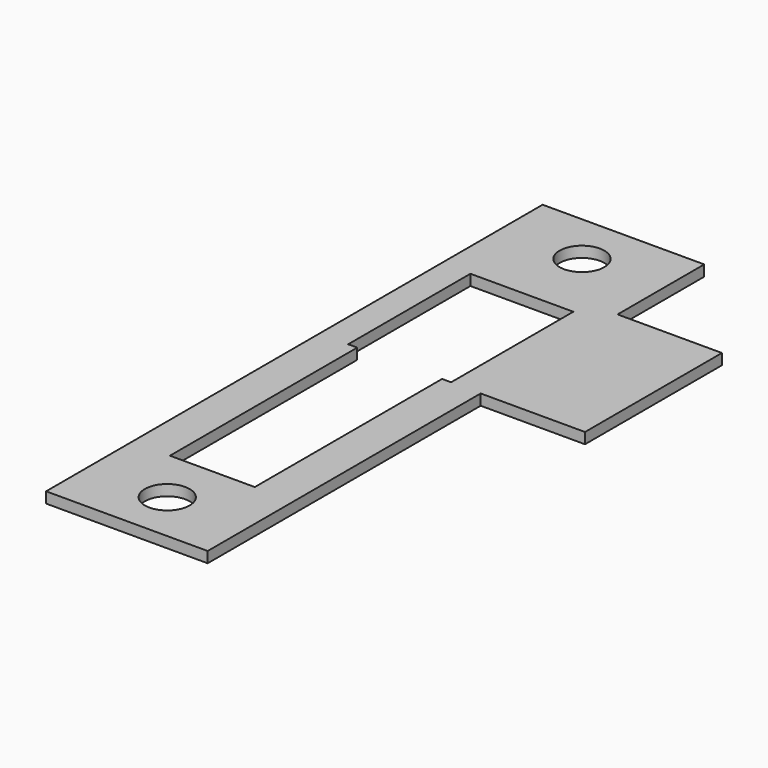
from build123d import *

# Parameters (mm, degrees)
F1_DEPTH = 1.5
F2_R     = 3.1
F3_DEPTH = 1.501


with BuildPart() as f1:
    # F0 (on Top) → F1 (new body)
    with BuildSketch(Plane.XY):
        Polygon((-11.462062, 36.813092), (-33.842062, 36.813092), (-33.842062, -49.136908), (-11.462062, -49.136908), (-11.462062, -1.886908), (2.987938, -1.886908), (2.987938, 21.813092), (-11.462062, 21.813092), align=None)
    extrude(amount=F1_DEPTH)

    # F2 (on Top) → F3 (cut, through all)
    with BuildSketch(Plane.XY):
        Polygon((-15.592062, 19.313092), (-29.842062, 19.313092), (-29.842062, -1.836908), (-28.592062, -1.836908), (-28.592062, -34.259443), (-16.842062, -34.259443), (-16.842062, -1.836908), (-15.592062, -1.836908), align=None)
        with Locations((-22.742062, -42.036908)):
            Circle(F2_R)
        with Locations((-22.592062, 29.563092)):
            Circle(F2_R)
    extrude(amount=F3_DEPTH, mode=Mode.SUBTRACT)


solid = f1.part
